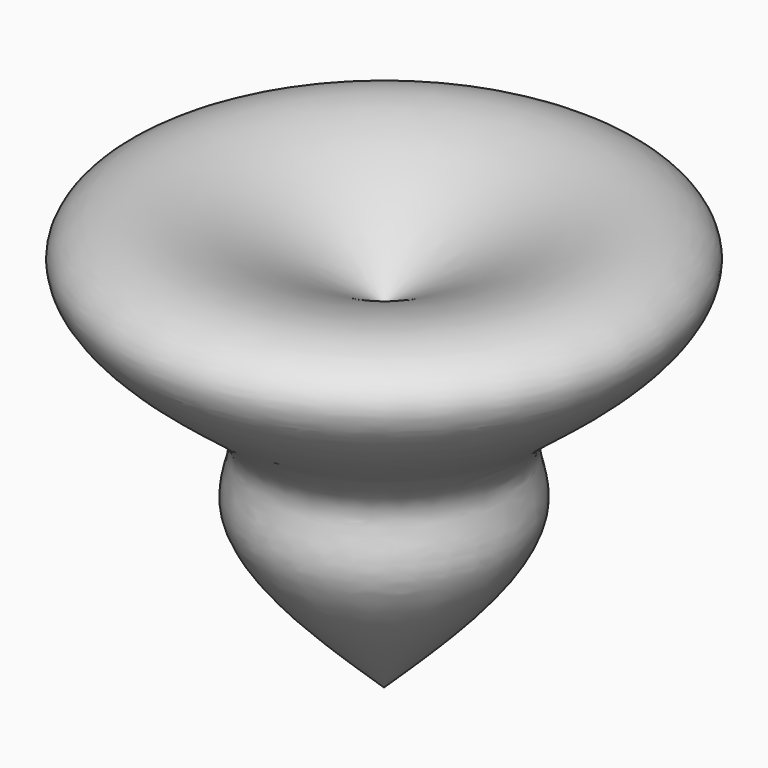
from build123d import *


with BuildPart() as f1:
    # F0 (on Front) → F1 (revolve)
    with BuildSketch(Plane.XZ):
        with BuildLine():
            add(Edge.make_bspline(
                [(-66.2685632706, -53.8778454065), (-43.9763251675, -32.4812848554), (-9.6908340844, 0.4266529924), (-28.4262153815, 28.4424990113), (2.6290266926, 49.6092736248), (42.6841281583, 85.0681536863), (2.4661235345, 109.4982841449), (-39.6272407021, 84.9085710955), (-66.2685632706, 69.3454891443)],
                knots=[0, 0, 0, 0, 0.2168037437, 0.3334444387, 0.4801042927, 0.6462785215, 0.7761260431, 1, 1, 1, 1], degree=3))
            Line((-66.2685632706, 69.3454891443), (-66.2685632706, -53.8778454065))
        make_face()
    revolve(axis=Axis((-66.2685632706, 0, 7.7338218689), (0, 0, -1)))


solid = f1.part
